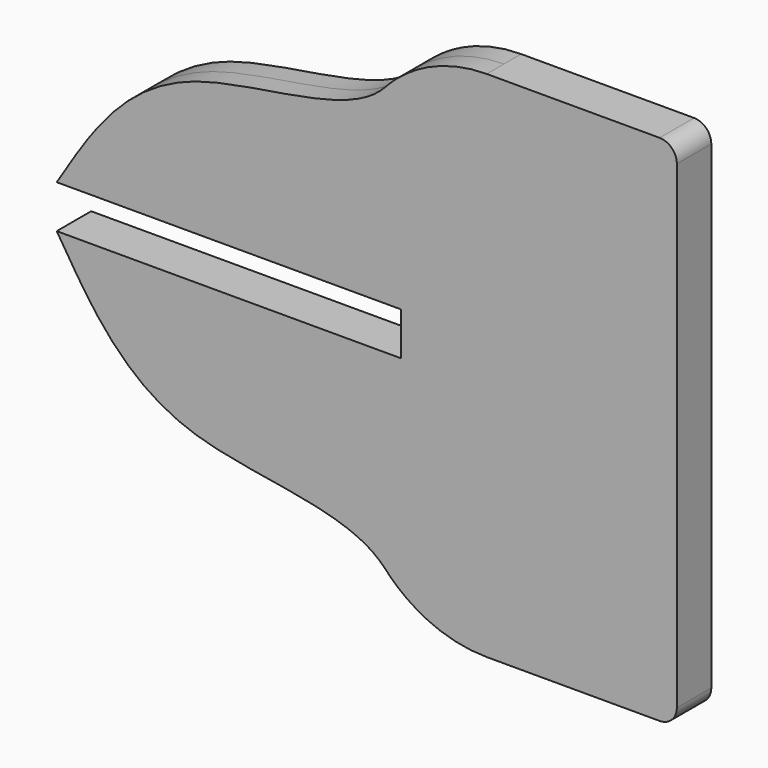
from build123d import *

# Parameters (mm, degrees)
F1_DEPTH = 0.79375
F2_R     = 0.635
F3_R     = 5.08


with BuildPart() as f1:
    # F0 (on Front) → F1 (new body, symmetric)
    with BuildSketch(Plane.XZ):
        with BuildLine():
            Line((-5.08, -9.4615), (5.08, -9.4615))
            Line((5.08, -9.4615), (5.08, 9.4615))
            Line((5.08, 9.4615), (-5.08, 9.4615))
            add(Edge.make_bspline(
                [(-5.08, 9.4615), (-5.08, 6.1859851204), (-14.0601360435, 7.136818114), (-16.564456746, 2.7273960877), (-17.78, 0.79375)],
                knots=[0, 0, 0, 0, 0.5228302589, 1, 1, 1, 1], degree=3))
            Line((-17.78, 0.79375), (-5.08, 0.79375))
            Line((-5.08, 0.79375), (-5.08, -0.79375))
            Line((-5.08, -0.79375), (-17.78, -0.79375))
            add(Edge.make_bspline(
                [(-5.08, -9.4615), (-5.08, -6.1859851204), (-14.0601360435, -7.136818114), (-16.564456746, -2.7273960877), (-17.78, -0.79375)],
                knots=[0, 0, 0, 0, 0.5228302589, 1, 1, 1, 1], degree=3))
        make_face()
    extrude(amount=F1_DEPTH, both=True)

    # F2
    f2_edges = [f1.edges().sort_by_distance(p)[0] for p in [
        (5.08, 0, 9.4615),
        (5.08, 0, -9.4615),
    ]]
    fillet(f2_edges, radius=F2_R)

    # F3
    f3_edges = [f1.edges().sort_by_distance(p)[0] for p in [
        (-5.08, 0.396875, 9.4615),
        (-5.08, -0.396875, 9.4615),
        (-5.08, 0.396875, -9.4615),
        (-5.08, -0.396875, -9.4615),
    ]]
    fillet(f3_edges, radius=F3_R)


solid = f1.part
